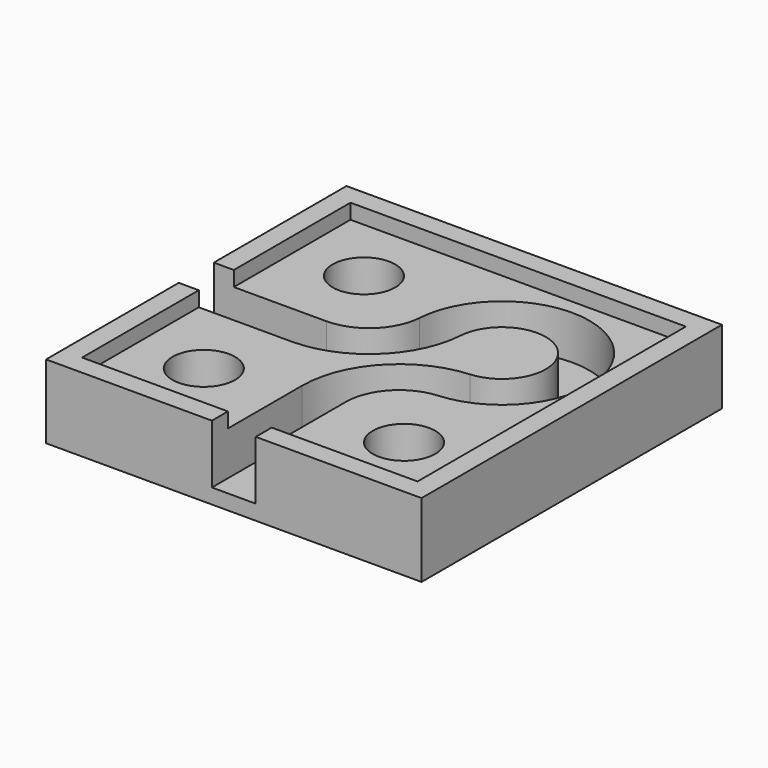
from build123d import *

# Parameters (mm, degrees)
SKETCH027_W     = 30
SKETCH027_H     = 30
PAD013_DEPTH    = 4.7
POCKET011_DEPTH = 3.501
PAD014_DEPTH    = 1.2
SKETCH031_R     = 2.5
POCKET012_DEPTH = 91.570364


with BuildPart() as part:
    # Sketch027 → Pad013 (new body)
    with BuildSketch(Plane.XY):
        Rectangle(SKETCH027_W, SKETCH027_H)
    extrude(amount=PAD013_DEPTH)

    # Sketch028 → Pocket011 (cut, through all)
    with BuildSketch(Plane.XY.offset(1.2)):
        with BuildLine():
            Line((-6, 1.75), (-15, 1.75))
            Line((-15, 1.75), (-15, -1.75))
            Line((-6, -1.75), (-15, -1.75))
            ThreePointArc((-6, -1.75), (-0.702489, 0.337963), (1.745834, 5.47887))
            ThreePointArc((5.47887, 1.745834), (7.712375, 7.712375), (1.745834, 5.47887))
            ThreePointArc((5.47887, 1.745834), (0.337963, -0.702489), (-1.75, -6))
            Line((-1.75, -6), (-1.75, -15))
            Line((1.75, -15), (-1.75, -15))
            Line((1.75, -6), (1.75, -15))
            ThreePointArc((5.72024, -1.745834), (2.896751, -3.090501), (1.75, -6))
            ThreePointArc((5.72024, -1.745834), (10.187248, 10.187248), (-1.745834, 5.72024))
            ThreePointArc((-6, 1.75), (-3.090501, 2.896751), (-1.745834, 5.72024))
        make_face()
    extrude(amount=POCKET011_DEPTH, mode=Mode.SUBTRACT)

    # Sketch029 → Pad014 (join)
    with BuildSketch(Plane.XY.offset(4.7)):
        Polygon((15, -15), (15, 15), (-15, 15), (-15, 1.75), (-13.4, 1.75), (-13.4, 13.4), (13.4, 13.4), (13.4, -13.4), (1.75, -13.4), (1.75, -15), align=None)
        Polygon((-1.75, -15), (-15, -15), (-15, -1.75), (-13.4, -1.75), (-13.4, -13.4), (-1.75, -13.4), align=None)
    extrude(amount=PAD014_DEPTH)

    # Sketch031 → Pocket012 (cut, through all)
    with BuildSketch(Plane.XY):
        with Locations((-8, -8)):
            Circle(SKETCH031_R)
    pocket012 = extrude(amount=POCKET012_DEPTH, mode=Mode.SUBTRACT)

    # Mirrored004: Pocket012 across Sketch031 V_Axis
    add(pocket012.mirror(Plane(origin=(0, 0, 0), x_dir=(0, 0, 1), z_dir=(1, 0, 0))), mode=Mode.SUBTRACT)

    # Mirrored005: Pocket012 across Sketch031 H_Axis
    add(pocket012.mirror(Plane.ZX), mode=Mode.SUBTRACT)


solid = part.part
